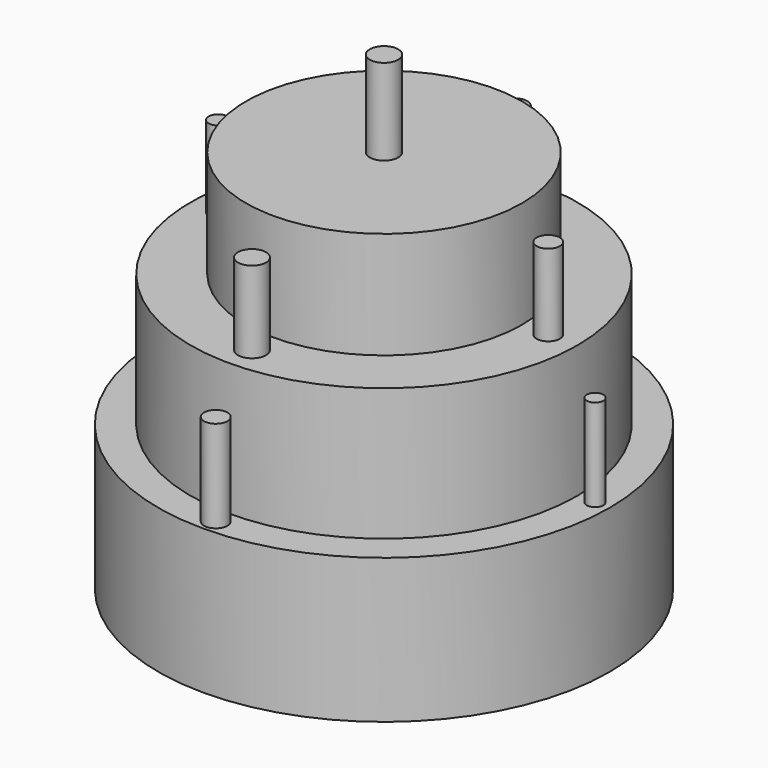
from build123d import *

# Parameters (mm, degrees)
F0_R      = 76.650002
F1_DEPTH  = 49.022
F2_R      = 65.6775
F3_DEPTH  = 93.98
F4_R      = 46.85452
F5_DEPTH  = 130.302
F6_R      = 2.879966
F6_R_2    = 2.810701
F6_R_3    = 3.469715
F6_R_4    = 3.981124
F7_DEPTH  = 80.264
F8_R      = 3.234533
F8_R_2    = 3.947979
F8_R_3    = 4.769434
F8_R_4    = 4.236935
F8_R_5    = 3.405214
F9_DEPTH  = 121.666
F10_R     = 4.825919
F11_DEPTH = 159.512


with BuildPart() as f1:
    # F0 (on Top) → F1 (new body)
    with BuildSketch(Plane.XY):
        Circle(F0_R)
    extrude(amount=F1_DEPTH)

    # F2 (on Top) → F3 (join)
    with BuildSketch(Plane.XY):
        Circle(F2_R)
    extrude(amount=F3_DEPTH)

    # F4 (on Top) → F5 (join)
    with BuildSketch(Plane.XY):
        Circle(F4_R)
    extrude(amount=F5_DEPTH)

    # F6 (on Top) → F7 (join)
    with BuildSketch(Plane.XY):
        with Locations((-71.895994, 0)):
            Circle(F6_R)
        with Locations((71.639679, 0)):
            Circle(F6_R_2)
        with Locations((0, 72.152309)):
            Circle(F6_R_3)
        with Locations((0, -71.383364)):
            Circle(F6_R_4)
    extrude(amount=F7_DEPTH)

    # F8 (on Top) → F9 (join)
    with BuildSketch(Plane.XY):
        with Locations((-56.260858, 0)):
            Circle(F8_R)
        with Locations((55.748228, 0)):
            Circle(F8_R_2)
        with Locations((0, -56.004543)):
            Circle(F8_R_3)
        with Locations((0, 55.491913)):
            Circle(F8_R_4)
        Circle(F8_R_5)
    extrude(amount=F9_DEPTH)

    # F10 (on Top) → F11 (join)
    with BuildSketch(Plane.XY):
        Circle(F10_R)
    extrude(amount=F11_DEPTH)


solid = f1.part
